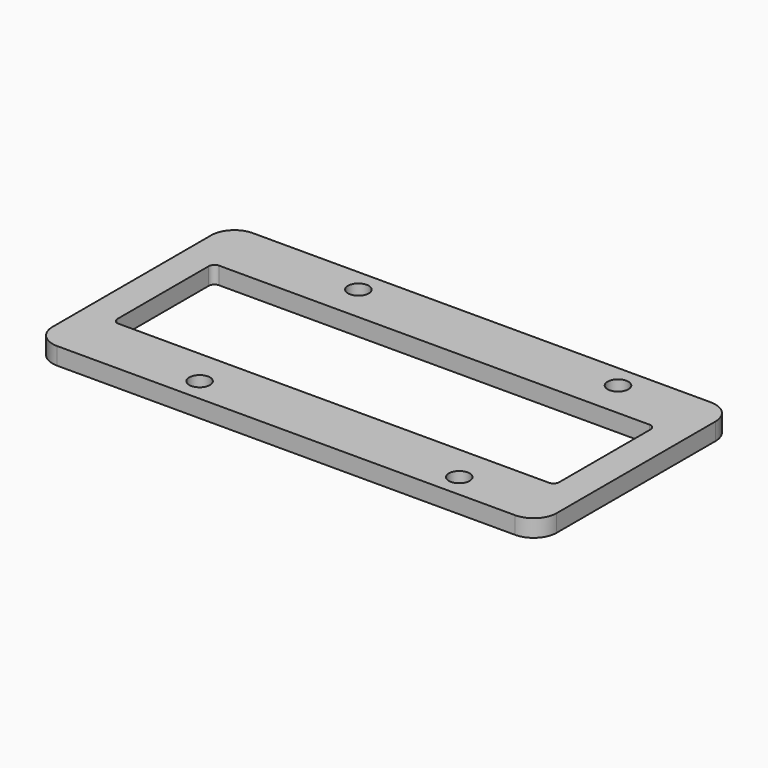
from build123d import *

# Parameters (mm, degrees)
SKETCH_W    = 87.4
SKETCH_H    = 42.4
SKETCH_R    = 1.8
SKETCH_W_2  = 76.6
SKETCH_H_2  = 21.8
PAD_DEPTH   = 3
FILLET_R    = 4
FILLET001_R = 1


with BuildPart() as part:
    # Sketch → Pad (new body)
    with BuildSketch(Plane.XY):
        Rectangle(SKETCH_W, SKETCH_H)
        with Locations((-18.2, 17.2)):
            Circle(SKETCH_R, mode=Mode.SUBTRACT)
        with Locations((-18.2, -17.2)):
            Circle(SKETCH_R, mode=Mode.SUBTRACT)
        with Locations((26.8, -17.2)):
            Circle(SKETCH_R, mode=Mode.SUBTRACT)
        with Locations((26.8, 17.2)):
            Circle(SKETCH_R, mode=Mode.SUBTRACT)
        Rectangle(SKETCH_W_2, SKETCH_H_2, mode=Mode.SUBTRACT)
    extrude(amount=PAD_DEPTH)

    # Fillet
    fillet_edges = [part.edges().sort_by_distance(p)[0] for p in [
        (43.7, -21.2, 1.5),
        (-43.7, -21.2, 1.5),
        (43.7, 21.2, 1.5),
        (-43.7, 21.2, 1.5),
    ]]
    fillet(fillet_edges, radius=FILLET_R)

    # Fillet001
    fillet001_edges = [part.edges().sort_by_distance(p)[0] for p in [
        (38.3, 10.9, 1.5),
        (38.3, -10.9, 1.5),
        (-38.3, -10.9, 1.5),
        (-38.3, 10.9, 1.5),
    ]]
    fillet(fillet001_edges, radius=FILLET001_R)


solid = part.part
